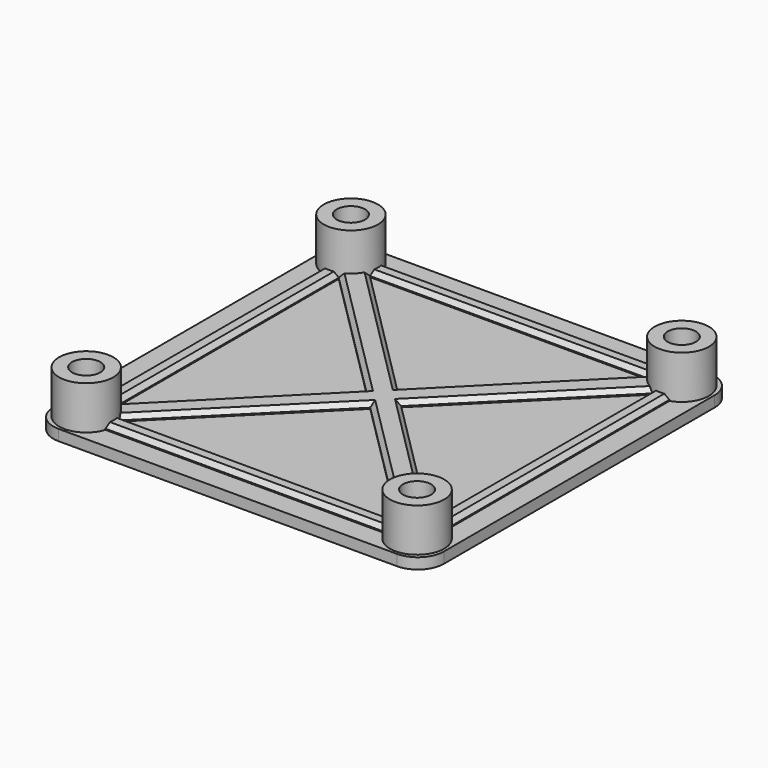
from build123d import *

# Parameters (mm, degrees)
F1_W      = 36
F1_H      = 36
F1_W_2    = 1.6
F1_H_2    = 25.7701668888
F3_DEPTH  = 1
F4_DEPTH  = 1.5
F0_R      = 2.5
F5_DEPTH  = 5
F6_D      = 2.6
F6_2_D    = 2.6
F6_3_D    = 2.6
F6_4_D    = 2.6
F6_5_D    = 2.6
F7_R      = 2.4
F8_SIZE   = 0.4
F8_2_SIZE = 0.4
F8_3_SIZE = 0.4
F8_4_SIZE = 0.4
F8_5_SIZE = 0.4


with BuildPart() as f3:
    # F1 (on Top) → F3 (new body)
    with BuildSketch(Plane.XY):
        with Locations((-0.4347223143, -0.5820784718)):
            Rectangle(F1_W, F1_H)
        Polygon((-14.8847223143, -13.5069610551), (-16.4847223143, -13.5069610551), (-16.4847223143, 12.2632058337), (-14.8847223143, 12.2632058337), (-13.3103623299, 13.8853522568), (-13.3135003961, 15.4672487407), (12.4465066948, 15.4672487407), (12.4310133279, 13.9160681699), (14.0187104725, 12.2982209828), (15.5826791858, 12.2886159704), (15.6178511423, -13.4644053848), (14.0188894569, -13.4623177689), (12.4487861792, -15.0260276361), (12.4379802584, -16.6056784602), (-13.3030944143, -16.5922419713), (-13.3366351046, -14.9738905812), align=None, mode=Mode.SUBTRACT)
        Polygon((14.0187104725, 12.2982209828), (1.1232575467, -0.557994994), (14.0188894569, -13.4623177689), align=None)
        Polygon((12.4310133279, 13.9160681699), (-13.3103623299, 13.8853522568), (-0.4341048877, 1.0004170071), align=None)
        Polygon((-0.4608600238, -2.1372925756), (-13.3366351046, -14.9738905812), (12.4487861792, -15.0260276361), align=None)
        Polygon((-14.8847223143, 12.2632058337), (-14.8847223143, -13.5069610551), (-2.0144917355, -0.5861774483), align=None)
        with Locations((-15.6847223143, -0.6218776107)):
            Rectangle(F1_W_2, F1_H_2)
        Polygon((12.4487861792, -15.0260276361), (-13.3366351046, -14.9738905812), (-13.3030944143, -16.5922419713), (12.4379802584, -16.6056784602), align=None)
        Polygon((-13.3103623299, 13.8853522568), (-14.8847223143, 12.2632058337), (-2.0144917355, -0.5861774483), (-0.4341048877, 1.0004170071), align=None)
        Polygon((14.0187104725, 12.2982209828), (14.0188894569, -13.4623177689), (15.6178511423, -13.4644053848), (15.5826791858, 12.2886159704), align=None)
        Polygon((12.4310133279, 13.9160681699), (-0.4341048877, 1.0004170071), (1.1232575467, -0.557994994), (14.0187104725, 12.2982209828), align=None)
        Polygon((1.1232575467, -0.557994994), (-0.4608600238, -2.1372925756), (12.4487861792, -15.0260276361), (14.0188894569, -13.4623177689), align=None)
        Polygon((-2.0144917355, -0.5861774483), (-14.8847223143, -13.5069610551), (-13.3366351046, -14.9738905812), (-0.4608600238, -2.1372925756), align=None)
        Polygon((-0.4341048877, 1.0004170071), (-2.0144917355, -0.5861774483), (-0.4608600238, -2.1372925756), (1.1232575467, -0.557994994), align=None)
    extrude(amount=F3_DEPTH)

    # F6 (through all)
    with Locations(Plane(origin=(0, 0, 0), x_dir=(1, 0, 0), z_dir=(0, 0, -1))):
        with Locations((14.8152776857, -14.6679215282), (-15.6847223143, -14.6679215282), (-15.6847223143, 15.8320784718), (14.8152776857, 15.8320784718)):
            Hole(F6_D / 2)

    # F7
    f7_edges = [f3.edges().sort_by_distance(p)[0] for p in [
        (17.565278, -18.582078, 0.5),
        (17.565278, 17.417922, 0.5),
        (-18.434722, -18.582078, 0.5),
        (-18.434722, 17.417922, 0.5),
    ]]
    fillet(f7_edges, radius=F7_R)


with BuildPart() as f4:
    # F1 (on Top) → F4 (new body)
    with BuildSketch(Plane.XY):
        with Locations((-15.6847223143, -0.6218776107)):
            Rectangle(F1_W_2, F1_H_2)
    extrude(amount=F4_DEPTH)

    # F8
    f8_edges = [f4.edges().sort_by_distance(p)[0] for p in [
        (-14.884722, -0.621878, 1.5),
        (-16.484722, -0.621878, 1.5),
    ]]
    chamfer(f8_edges, length=F8_SIZE)


with BuildPart() as f4b:
    # F1 (on Top) → F4, piece 2 (new body)
    with BuildSketch(Plane.XY):
        Polygon((12.4487861792, -15.0260276361), (-13.3366351046, -14.9738905812), (-13.3030944143, -16.5922419713), (12.4379802584, -16.6056784602), align=None)
    extrude(amount=F4_DEPTH)

    # F8#3
    f8_3_edges = [f4b.edges().sort_by_distance(p)[0] for p in [
        (-0.443924, -14.999959, 1.5),
        (-0.432557, -16.59896, 1.5),
    ]]
    chamfer(f8_3_edges, length=F8_3_SIZE)


with BuildPart() as f4c:
    # F1 (on Top) → F4, piece 3 (new body)
    with BuildSketch(Plane.XY):
        Polygon((-2.0144917355, -0.5861774483), (-14.8847223143, -13.5069610551), (-13.3366351046, -14.9738905812), (-0.4608600238, -2.1372925756), align=None)
        Polygon((1.1232575467, -0.557994994), (-0.4608600238, -2.1372925756), (12.4487861792, -15.0260276361), (14.0188894569, -13.4623177689), align=None)
        Polygon((-0.4341048877, 1.0004170071), (-2.0144917355, -0.5861774483), (-0.4608600238, -2.1372925756), (1.1232575467, -0.557994994), align=None)
        Polygon((-13.3103623299, 13.8853522568), (-14.8847223143, 12.2632058337), (-2.0144917355, -0.5861774483), (-0.4341048877, 1.0004170071), align=None)
        Polygon((12.4310133279, 13.9160681699), (-0.4341048877, 1.0004170071), (1.1232575467, -0.557994994), (14.0187104725, 12.2982209828), align=None)
    extrude(amount=F4_DEPTH)

    # F8#2
    f8_2_edges = [f4c.edges().sort_by_distance(p)[0] for p in [
        (-8.449607, -7.046569, 1.5),
        (-6.898748, -8.555592, 1.5),
        (-8.449607, 5.838514, 1.5),
        (-6.872234, 7.442885, 1.5),
        (5.998454, 7.458243, 1.5),
        (7.570984, 5.870113, 1.5),
        (7.571074, -7.010156, 1.5),
        (5.993963, -8.58166, 1.5),
    ]]
    chamfer(f8_2_edges, length=F8_2_SIZE)


with BuildPart() as f4d:
    # F1 (on Top) → F4, piece 4 (new body)
    with BuildSketch(Plane.XY):
        Polygon((-13.3135003961, 15.4672487407), (-13.3103623299, 13.8853522568), (12.4310133279, 13.9160681699), (12.4465066948, 15.4672487407), align=None)
    extrude(amount=F4_DEPTH)

    # F8#5
    f8_5_edges = [f4d.edges().sort_by_distance(p)[0] for p in [
        (-0.433497, 15.467249, 1.5),
        (-0.439675, 13.90071, 1.5),
    ]]
    chamfer(f8_5_edges, length=F8_5_SIZE)


with BuildPart() as f4e:
    # F1 (on Top) → F4, piece 5 (new body)
    with BuildSketch(Plane.XY):
        Polygon((14.0187104725, 12.2982209828), (14.0188894569, -13.4623177689), (15.6178511423, -13.4644053848), (15.5826791858, 12.2886159704), align=None)
    extrude(amount=F4_DEPTH)

    # F8#4
    f8_4_edges = [f4e.edges().sort_by_distance(p)[0] for p in [
        (14.0188, -0.582048, 1.5),
        (15.600265, -0.587895, 1.5),
    ]]
    chamfer(f8_4_edges, length=F8_4_SIZE)


with BuildPart() as f5:
    # F0 (on Top) → F5 (new body)
    with BuildSketch(Plane.XY):
        with Locations((-15.6847223143, 14.6679215282)):
            Circle(F0_R)
    extrude(amount=F5_DEPTH)

    # F6#2 (through all)
    with Locations(Plane(origin=(0, 0, 0), x_dir=(1, 0, 0), z_dir=(0, 0, -1))):
        with Locations((14.8152776857, -14.6679215282), (-15.6847223143, -14.6679215282), (-15.6847223143, 15.8320784718), (14.8152776857, 15.8320784718)):
            Hole(F6_2_D / 2)


with BuildPart() as f5b:
    # F0 (on Top) → F5, piece 2 (new body)
    with BuildSketch(Plane.XY):
        with Locations((14.8152776857, 14.6679215282)):
            Circle(F0_R)
    extrude(amount=F5_DEPTH)

    # F6#3 (through all)
    with Locations(Plane(origin=(0, 0, 0), x_dir=(1, 0, 0), z_dir=(0, 0, -1))):
        with Locations((14.8152776857, -14.6679215282), (-15.6847223143, -14.6679215282), (-15.6847223143, 15.8320784718), (14.8152776857, 15.8320784718)):
            Hole(F6_3_D / 2)


with BuildPart() as f5c:
    # F0 (on Top) → F5, piece 3 (new body)
    with BuildSketch(Plane.XY):
        with Locations((14.8152776857, -15.8320784718)):
            Circle(F0_R)
    extrude(amount=F5_DEPTH)

    # F6#4 (through all)
    with Locations(Plane(origin=(0, 0, 0), x_dir=(1, 0, 0), z_dir=(0, 0, -1))):
        with Locations((14.8152776857, -14.6679215282), (-15.6847223143, -14.6679215282), (-15.6847223143, 15.8320784718), (14.8152776857, 15.8320784718)):
            Hole(F6_4_D / 2)


with BuildPart() as f5d:
    # F0 (on Top) → F5, piece 4 (new body)
    with BuildSketch(Plane.XY):
        with Locations((-15.6847223143, -15.8320784718)):
            Circle(F0_R)
    extrude(amount=F5_DEPTH)

    # F6#5 (through all)
    with Locations(Plane(origin=(0, 0, 0), x_dir=(1, 0, 0), z_dir=(0, 0, -1))):
        with Locations((14.8152776857, -14.6679215282), (-15.6847223143, -14.6679215282), (-15.6847223143, 15.8320784718), (14.8152776857, 15.8320784718)):
            Hole(F6_5_D / 2)


solid = Compound([f3.part, f4.part, f4b.part, f4c.part, f4d.part, f4e.part, f5.part, f5b.part, f5c.part, f5d.part])
